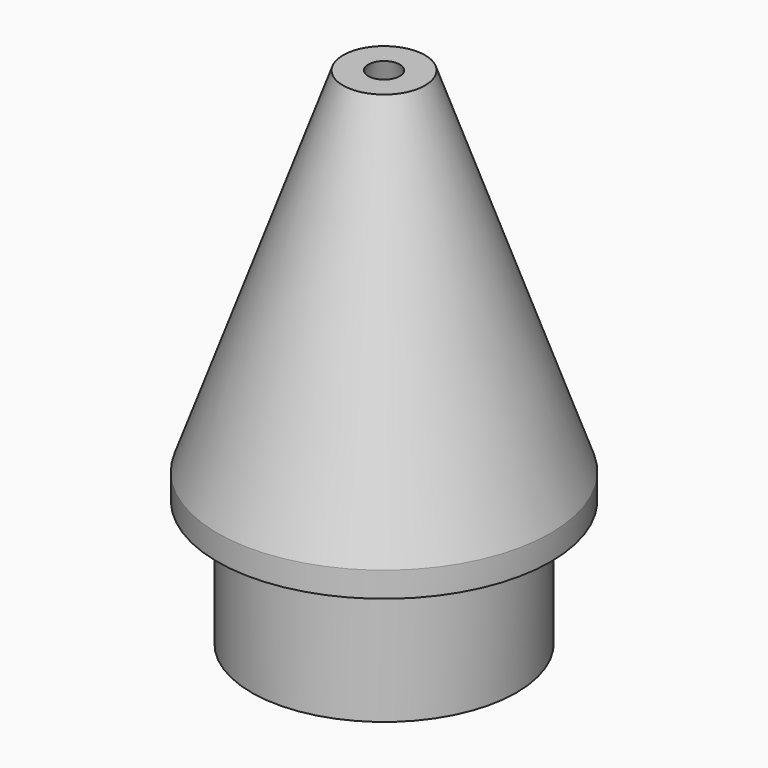
from build123d import *

# Parameters (mm, degrees)
F0_W = 2.54
F0_H = 12.7


with BuildPart() as f1:
    # F0 (on Front) → F1 (revolve)
    with BuildSketch(Plane.XZ):
        Polygon((1.5875, 50.8), (14.224, 15.24), (16.764, 15.24), (4.1275, 50.8), align=None)
        Polygon((10.795, 15.24), (10.795, 12.7), (13.335, 12.7), (16.764, 12.7), (16.764, 15.24), (14.224, 15.24), align=None)
        with Locations((12.065, 6.35)):
            Rectangle(F0_W, F0_H)
    revolve(axis=Axis((0, 0, 12.892376), (0, 0, 1)))


solid = f1.part
